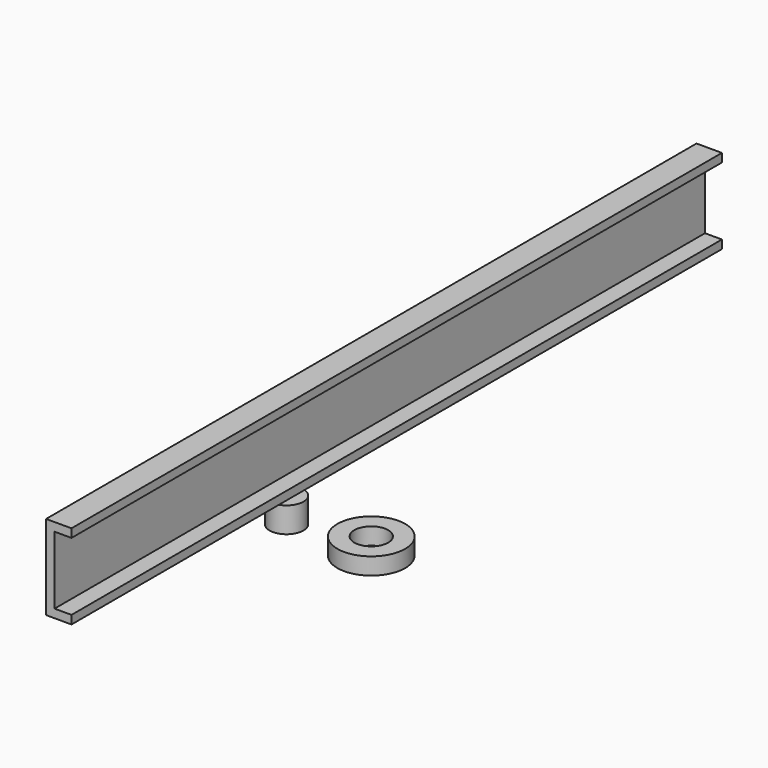
from build123d import *

# Parameters (mm, degrees)
F0_R     = 25.4
F0_R_2   = 12.7
F1_DEPTH = 12.7
F2_R     = 12.7
F3_DEPTH = 19.05
F4_W     = 609.6
F4_H     = 63.5
F5_DEPTH = 19.05
F6_W     = 609.6
F6_H     = 50.8
F7_DEPTH = 12.7


with BuildPart() as f1:
    # F0 (on Top) → F1 (new body)
    with BuildSketch(Plane.XY):
        Circle(F0_R)
        Circle(F0_R_2, mode=Mode.SUBTRACT)
    extrude(amount=F1_DEPTH)


with BuildPart() as f3:
    # F2 (on Top) → F3 (new body)
    with BuildSketch(Plane.XY):
        with Locations((-63.573614, 0)):
            Circle(F2_R)
    extrude(amount=F3_DEPTH)


with BuildPart() as f5:
    # F4 (on Right) → F5 (new body)
    with BuildSketch(Plane.YZ):
        with Locations((0, 116.374905)):
            Rectangle(F4_W, F4_H)
    extrude(amount=F5_DEPTH)

    # F6 (on face) → F7 (cut)
    with BuildSketch(Plane.YZ.offset(19.05)):
        with Locations((0, 116.374905)):
            Rectangle(F6_W, F6_H)
    extrude(amount=-F7_DEPTH, mode=Mode.SUBTRACT)


solid = Compound([f1.part, f3.part, f5.part])
